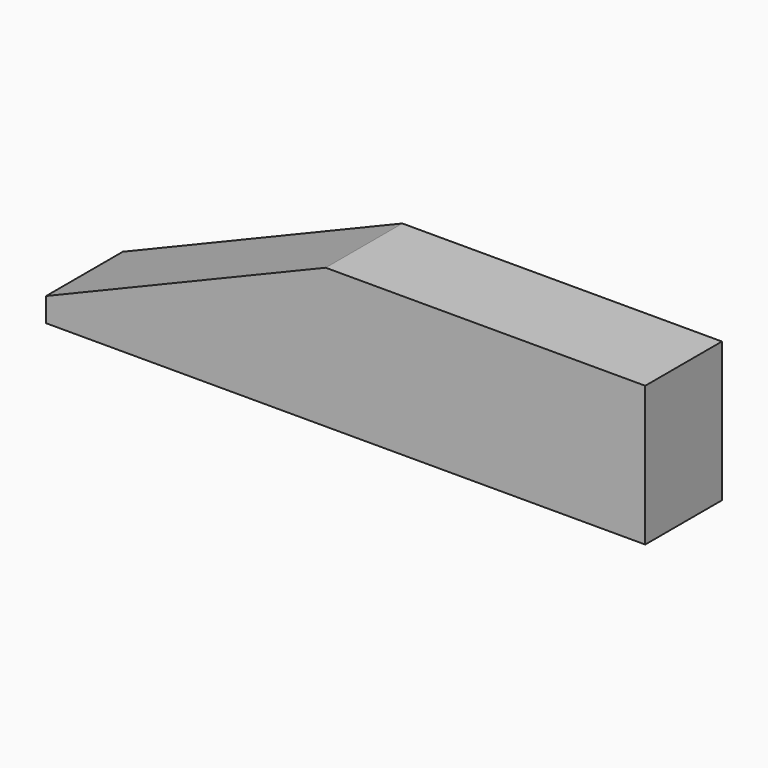
from build123d import *

# Parameters (mm, degrees)
F1_DEPTH = 24
F3_DEPTH = 25


with BuildPart() as f1:
    # F0 (on Front) → F1 (new body)
    with BuildSketch(Plane.XZ):
        Polygon((75, 17.5), (-75, 17.5), (-75, -17.5), (75, -17.5), (75, -11.81771), align=None)
    extrude(amount=F1_DEPTH)

    # F2 (on face) → F3 (cut)
    with BuildSketch(Plane.XZ.offset(24)):
        Polygon((-5, 17.5), (-75, 17.5), (-75, -11.5), align=None)
    extrude(amount=-F3_DEPTH, mode=Mode.SUBTRACT)


solid = f1.part
